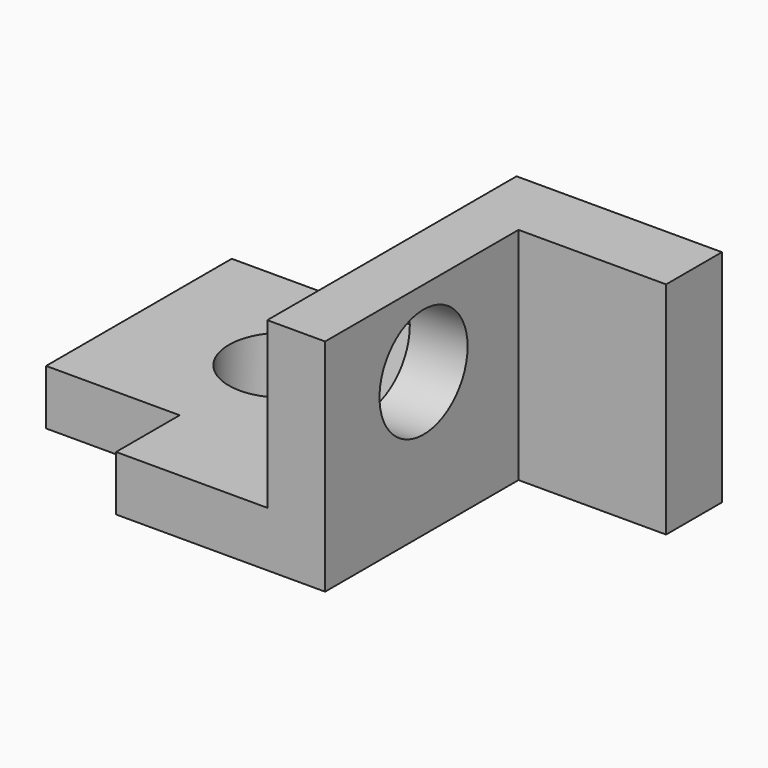
from build123d import *

# Parameters (mm, degrees)
F0_R     = 5
F1_DEPTH = 5
F2_DEPTH = 20
F3_R     = 5
F4_DEPTH = 25


with BuildPart() as f1:
    # F0 (on Top) → F1 (new body)
    with BuildSketch(Plane.XY):
        Polygon((-31.1052, 21.068258), (-31.1052, 0), (-18.978415, 0), (-18.978415, -7.215436), (-5.24761, -7.215436), (-5.24761, 21.068258), align=None)
        with Locations((-18.008273, 10.610935)):
            Circle(F0_R, mode=Mode.SUBTRACT)
    extrude(amount=F1_DEPTH)

    # F0 (on Top) → F2 (join)
    with BuildSketch(Plane.XY):
        Polygon((13.400096, 21.068258), (-5.24761, 21.068258), (-5.24761, -7.215436), (0, -7.215436), (0, 14.73404), (13.400096, 14.73404), align=None)
    extrude(amount=F2_DEPTH)

    # F3 (on Right) → F4 (cut)
    with BuildSketch(Plane.YZ):
        with Locations((3.955835, 13.019141)):
            Circle(F3_R)
    extrude(amount=-F4_DEPTH, mode=Mode.SUBTRACT)


solid = f1.part
